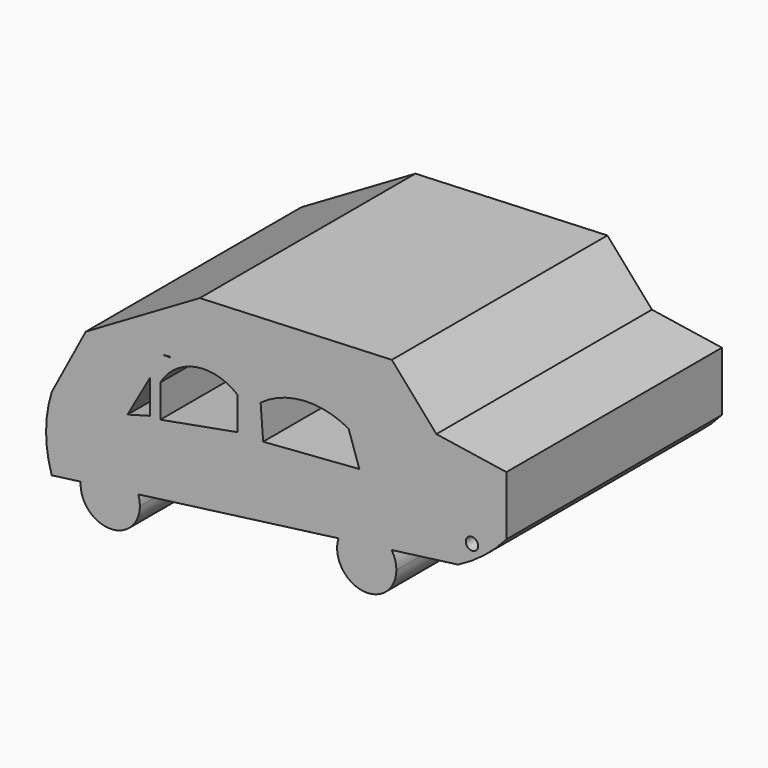
from build123d import *

# Parameters (mm, degrees)
F0_R     = 4.6728487795
F1_DEPTH = 76.2
F2_DEPTH = 127


with BuildPart() as f1:
    # F0 (on Front) → F1 (new body)
    with BuildSketch(Plane.XZ):
        Polygon((-82.0828080177, 38.3063368499), (-87.9458636045, 38.3063368499), (-171.0946708918, -13.6161064729), (-125.8510925382, -8.2959541026), (-95.7782864025, -59.0522934862), (-17.8556740284, -48.7839821726), (-21.7343605209, 43.7378691396), (-81.9040634204, 38.8019642147), align=None)
        Polygon((-113.951690495, -10.0712729618), (-97.0069468021, 19.8594685644), (-97.0069468021, -5.3923181258), align=None, mode=Mode.SUBTRACT)
        with BuildLine():
            Line((-89.1527161002, -5.3923181258), (-89.1527161002, 19.3482497707))
            ThreePointArc((-89.1527161002, 19.3482497707), (-62.4917374458, 38.2525508537), (-30.8751352131, 29.9717993475))
            Line((-30.8751352131, 29.9717993475), (-30.8751352131, 5.231231451))
            Line((-30.8751352131, 5.231231451), (-89.1527161002, -5.3923181258))
        make_face(mode=Mode.SUBTRACT)
        Polygon((56.4985461533, 50.1555539668), (-21.7343605209, 43.7378691396), (-17.8556740284, -48.7839821726), (34.5728257331, -41.875176874), (83.1488147378, 6.680324208), align=None)
        with BuildLine():
            Line((60.8810707927, 10.639837943), (-11.6559350863, 5.1995664835))
            Line((-11.6559350863, 5.1995664835), (-13.558409344, 30.5659084837))
            ThreePointArc((-13.558409344, 30.5659084837), (19.01943683, 42.4004832599), (52.8298467523, 34.7696640142))
            Line((52.8298467523, 34.7696640142), (60.8810707927, 10.639837943))
        make_face(mode=Mode.SUBTRACT)
        with BuildLine():
            Line((-59.3939498067, 85.0349143147), (-87.9458636045, 38.3063368499))
            Line((-87.9458636045, 38.3063368499), (-81.9040634204, 38.8019642147))
            Line((-81.9040634204, 38.8019642147), (-21.7343605209, 43.7378691396))
            Line((-21.7343605209, 43.7378691396), (56.4985461533, 50.1555539668))
            ThreePointArc((56.4985461533, 50.1555539668), (72.9922234752, 69.1911241089), (85.4084738249, 91.1052987338))
            Line((85.4084738249, 91.1052987338), (-59.3939498067, 85.0349143147))
        make_face()
        with BuildLine():
            Line((-125.8510925382, -8.2959541026), (-171.0946708918, -13.6161064729))
            ThreePointArc((-171.0946708918, -13.6161064729), (-175.3525355191, -41.2966368087), (-171.0946708918, -68.9771671446))
            Line((-171.0946708918, -68.9771671446), (-149.2625026008, -66.1002166185))
            ThreePointArc((-149.2625026008, -66.1002166185), (-129.891571754, -45.605411199), (-105.8726619592, -60.382487477))
            Line((-105.8726619592, -60.382487477), (-95.7782864025, -59.0522934862))
            Line((-95.7782864025, -59.0522934862), (-125.8510925382, -8.2959541026))
        make_face()
        with BuildLine():
            Line((171.7711003827, 44.667663848), (118.9961803994, 52.7360612476))
            ThreePointArc((118.9961803994, 52.7360612476), (103.7517217598, 27.6228254002), (83.1488147378, 6.680324208))
            Line((83.1488147378, 6.680324208), (135.383322835, -4.3581258506))
            ThreePointArc((135.383322835, -4.3581258506), (156.7386965662, 17.808260925), (171.7711003827, 44.667663848))
        make_face()
        with BuildLine():
            Line((118.9961803994, 52.7360612476), (85.4084738249, 91.1052987338))
            ThreePointArc((85.4084738249, 91.1052987338), (72.9922234752, 69.1911241089), (56.4985461533, 50.1555539668))
            Line((56.4985461533, 50.1555539668), (83.1488147378, 6.680324208))
            ThreePointArc((83.1488147378, 6.680324208), (103.7517217598, 27.6228254002), (118.9961803994, 52.7360612476))
        make_face()
        Polygon((-171.0946708918, -13.6161064729), (-87.9458636045, 38.3063368499), (-59.3939498067, 85.0349143147), (-145.4285588675, 34.7576718265), align=None)
        with BuildLine():
            Line((135.383322835, -4.3581258506), (83.1488147378, 6.680324208))
            Line((83.1488147378, 6.680324208), (34.5728257331, -41.875176874))
            Line((34.5728257331, -41.875176874), (45.1625451006, -40.479708577))
            ThreePointArc((45.1625451006, -40.479708577), (63.5404166045, -25.1049375209), (85.2738062796, -35.1940167294))
            Line((85.2738062796, -35.1940167294), (135.383322835, -28.5907972007))
            Line((135.383322835, -28.5907972007), (135.383322835, -4.3581258506))
        make_face()
        with BuildLine():
            Line((85.2738062796, -35.1940167294), (45.1625451006, -40.479708577))
            ThreePointArc((45.1625451006, -40.479708577), (63.026434123, -69.3551543594), (88.8144400038, -47.2669526935))
            ThreePointArc((88.8144400038, -47.2669526935), (87.9110259752, -40.976247845), (85.2738062796, -35.1940167294))
        make_face()
        with BuildLine():
            Line((171.7711003827, 8.2424561064), (171.7711003827, 44.667663848))
            ThreePointArc((171.7711003827, 44.667663848), (156.7386965662, 17.808260925), (135.383322835, -4.3581258506))
            Line((135.383322835, -4.3581258506), (135.383322835, -28.5907972007))
            ThreePointArc((135.383322835, -28.5907972007), (154.9647514276, -16.0613336286), (171.7711003827, 0))
            Line((171.7711003827, 0), (171.7711003827, 8.2424561064))
        make_face()
        with Locations((145.8175480366, -11.3391866907)):
            Circle(F0_R, mode=Mode.SUBTRACT)
        with Locations((167.0982516033, 8.2424561064)):
            Circle(F0_R, mode=Mode.SUBTRACT)
        with BuildLine():
            Line((-105.8726619592, -60.382487477), (-149.2625026008, -66.1002166185))
            ThreePointArc((-149.2625026008, -66.1002166185), (-127.8053413331, -90.1054630355), (-104.6175483547, -67.7674263716))
            ThreePointArc((-104.6175483547, -67.7674263716), (-104.9335604818, -64.0220080826), (-105.8726619592, -60.382487477))
        make_face()
        with BuildLine():
            ThreePointArc((-105.8726619592, -60.382487477), (-129.891571754, -45.605411199), (-149.2625026008, -66.1002166185))
            Line((-149.2625026008, -66.1002166185), (-105.8726619592, -60.382487477))
        make_face()
        with BuildLine():
            ThreePointArc((85.2738062796, -35.1940167294), (63.5404166045, -25.1049375209), (45.1625451006, -40.479708577))
            Line((45.1625451006, -40.479708577), (85.2738062796, -35.1940167294))
        make_face()
        with Locations((167.0982516033, 8.2424561064)):
            Circle(F0_R)
    extrude(amount=-F1_DEPTH)

    # F0 (on Front) → F2 (join)
    with BuildSketch(Plane.XZ):
        Polygon((-82.0828080177, 38.3063368499), (-87.9458636045, 38.3063368499), (-171.0946708918, -13.6161064729), (-125.8510925382, -8.2959541026), (-95.7782864025, -59.0522934862), (-17.8556740284, -48.7839821726), (-21.7343605209, 43.7378691396), (-81.9040634204, 38.8019642147), align=None)
        Polygon((-113.951690495, -10.0712729618), (-97.0069468021, 19.8594685644), (-97.0069468021, -5.3923181258), align=None, mode=Mode.SUBTRACT)
        with BuildLine():
            Line((-89.1527161002, -5.3923181258), (-89.1527161002, 19.3482497707))
            ThreePointArc((-89.1527161002, 19.3482497707), (-62.4917374458, 38.2525508537), (-30.8751352131, 29.9717993475))
            Line((-30.8751352131, 29.9717993475), (-30.8751352131, 5.231231451))
            Line((-30.8751352131, 5.231231451), (-89.1527161002, -5.3923181258))
        make_face(mode=Mode.SUBTRACT)
        Polygon((56.4985461533, 50.1555539668), (-21.7343605209, 43.7378691396), (-17.8556740284, -48.7839821726), (34.5728257331, -41.875176874), (83.1488147378, 6.680324208), align=None)
        with BuildLine():
            Line((60.8810707927, 10.639837943), (-11.6559350863, 5.1995664835))
            Line((-11.6559350863, 5.1995664835), (-13.558409344, 30.5659084837))
            ThreePointArc((-13.558409344, 30.5659084837), (19.01943683, 42.4004832599), (52.8298467523, 34.7696640142))
            Line((52.8298467523, 34.7696640142), (60.8810707927, 10.639837943))
        make_face(mode=Mode.SUBTRACT)
        with BuildLine():
            Line((-59.3939498067, 85.0349143147), (-87.9458636045, 38.3063368499))
            Line((-87.9458636045, 38.3063368499), (-81.9040634204, 38.8019642147))
            Line((-81.9040634204, 38.8019642147), (-21.7343605209, 43.7378691396))
            Line((-21.7343605209, 43.7378691396), (56.4985461533, 50.1555539668))
            ThreePointArc((56.4985461533, 50.1555539668), (72.9922234752, 69.1911241089), (85.4084738249, 91.1052987338))
            Line((85.4084738249, 91.1052987338), (-59.3939498067, 85.0349143147))
        make_face()
        with BuildLine():
            Line((-125.8510925382, -8.2959541026), (-171.0946708918, -13.6161064729))
            ThreePointArc((-171.0946708918, -13.6161064729), (-175.3525355191, -41.2966368087), (-171.0946708918, -68.9771671446))
            Line((-171.0946708918, -68.9771671446), (-149.2625026008, -66.1002166185))
            ThreePointArc((-149.2625026008, -66.1002166185), (-129.891571754, -45.605411199), (-105.8726619592, -60.382487477))
            Line((-105.8726619592, -60.382487477), (-95.7782864025, -59.0522934862))
            Line((-95.7782864025, -59.0522934862), (-125.8510925382, -8.2959541026))
        make_face()
        with BuildLine():
            Line((171.7711003827, 44.667663848), (118.9961803994, 52.7360612476))
            ThreePointArc((118.9961803994, 52.7360612476), (103.7517217598, 27.6228254002), (83.1488147378, 6.680324208))
            Line((83.1488147378, 6.680324208), (135.383322835, -4.3581258506))
            ThreePointArc((135.383322835, -4.3581258506), (156.7386965662, 17.808260925), (171.7711003827, 44.667663848))
        make_face()
        with BuildLine():
            Line((118.9961803994, 52.7360612476), (85.4084738249, 91.1052987338))
            ThreePointArc((85.4084738249, 91.1052987338), (72.9922234752, 69.1911241089), (56.4985461533, 50.1555539668))
            Line((56.4985461533, 50.1555539668), (83.1488147378, 6.680324208))
            ThreePointArc((83.1488147378, 6.680324208), (103.7517217598, 27.6228254002), (118.9961803994, 52.7360612476))
        make_face()
        Polygon((-171.0946708918, -13.6161064729), (-87.9458636045, 38.3063368499), (-59.3939498067, 85.0349143147), (-145.4285588675, 34.7576718265), align=None)
        with BuildLine():
            Line((135.383322835, -4.3581258506), (83.1488147378, 6.680324208))
            Line((83.1488147378, 6.680324208), (34.5728257331, -41.875176874))
            Line((34.5728257331, -41.875176874), (45.1625451006, -40.479708577))
            ThreePointArc((45.1625451006, -40.479708577), (63.5404166045, -25.1049375209), (85.2738062796, -35.1940167294))
            Line((85.2738062796, -35.1940167294), (135.383322835, -28.5907972007))
            Line((135.383322835, -28.5907972007), (135.383322835, -4.3581258506))
        make_face()
        with BuildLine():
            Line((85.2738062796, -35.1940167294), (45.1625451006, -40.479708577))
            ThreePointArc((45.1625451006, -40.479708577), (63.026434123, -69.3551543594), (88.8144400038, -47.2669526935))
            ThreePointArc((88.8144400038, -47.2669526935), (87.9110259752, -40.976247845), (85.2738062796, -35.1940167294))
        make_face()
        with BuildLine():
            Line((171.7711003827, 8.2424561064), (171.7711003827, 44.667663848))
            ThreePointArc((171.7711003827, 44.667663848), (156.7386965662, 17.808260925), (135.383322835, -4.3581258506))
            Line((135.383322835, -4.3581258506), (135.383322835, -28.5907972007))
            ThreePointArc((135.383322835, -28.5907972007), (154.9647514276, -16.0613336286), (171.7711003827, 0))
            Line((171.7711003827, 0), (171.7711003827, 8.2424561064))
        make_face()
        with Locations((145.8175480366, -11.3391866907)):
            Circle(F0_R, mode=Mode.SUBTRACT)
        with Locations((167.0982516033, 8.2424561064)):
            Circle(F0_R, mode=Mode.SUBTRACT)
        with BuildLine():
            Line((-105.8726619592, -60.382487477), (-149.2625026008, -66.1002166185))
            ThreePointArc((-149.2625026008, -66.1002166185), (-127.8053413331, -90.1054630355), (-104.6175483547, -67.7674263716))
            ThreePointArc((-104.6175483547, -67.7674263716), (-104.9335604818, -64.0220080826), (-105.8726619592, -60.382487477))
        make_face()
        with BuildLine():
            ThreePointArc((-105.8726619592, -60.382487477), (-129.891571754, -45.605411199), (-149.2625026008, -66.1002166185))
            Line((-149.2625026008, -66.1002166185), (-105.8726619592, -60.382487477))
        make_face()
        with BuildLine():
            ThreePointArc((85.2738062796, -35.1940167294), (63.5404166045, -25.1049375209), (45.1625451006, -40.479708577))
            Line((45.1625451006, -40.479708577), (85.2738062796, -35.1940167294))
        make_face()
        with Locations((167.0982516033, 8.2424561064)):
            Circle(F0_R)
    extrude(amount=F2_DEPTH)


solid = f1.part
